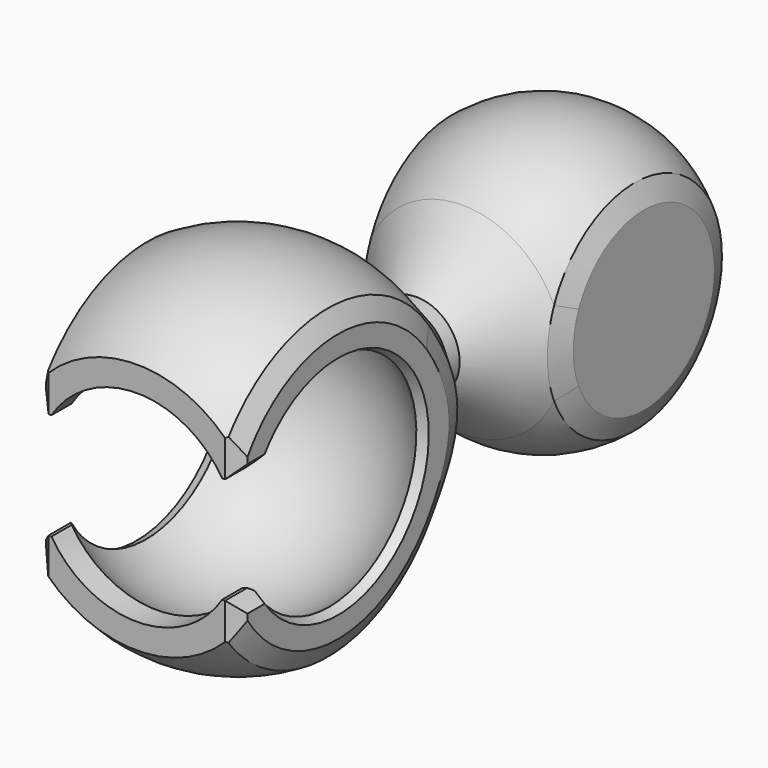
from build123d import *

# Parameters (mm, degrees)
BOX_W           = 10
BOX_H           = 10
BOX_DEPTH       = 3
EXTRUDE_DEPTH   = 10
CHAMFER_SIZE    = 0.35
CHAMFER001_SIZE = 0.3


with BuildPart() as notch:
    # Box → Box (new body)
    with BuildSketch(Plane(origin=(-5, -10, -1.5), x_dir=(1, 0, 0), z_dir=(0, 0, 1))):
        with Locations((5, 5)):
            Rectangle(BOX_W, BOX_H)
    extrude(amount=BOX_DEPTH)


with BuildPart() as extrude_body:
    # Sketch001 → Extrude (new body)
    with BuildSketch(Plane.XY):
        Polygon((7.953031, -3.5355339059), (7.953031, 19.801474), (-7.796516, 19.801474), (-7.796516, -5.421875), (-2.828427, -3.535534), (-2.828427, 18.553848), (2.8284271247, 18.553848), (2.8284271247, -3.5355339059), align=None)
    extrude(amount=EXTRUDE_DEPTH)


with BuildPart() as extrude_body_1:
    # Extrude placement: moved
    add(extrude_body.part.moved(Location((0, 0, -5))))


with BuildPart() as connectionchamfer:
    # Sketch → Revolve (revolve)
    with BuildSketch(Plane.XY):
        with BuildLine():
            ThreePointArc((-3.5355339059, 3.5355339059), (-5, 0), (-3.5355339059, -3.5355339059))
            Line((-2.8284271247, -3.5355339059), (-3.5355339059, -3.5355339059))
            Line((-2.8284271247, -2.8284271247), (-2.8284271247, -3.5355339059))
            ThreePointArc((0, 4), (-3.69551813, 1.5307337295), (-2.8284271247, -2.8284271247))
            Line((0, 14.7279220614), (0, 4))
            ThreePointArc((0, 14.7279220614), (-3.69551813, 12.2586557908), (-2.8284271247, 7.8994949366))
            Line((-1, 6.0710678119), (-2.8284271247, 7.8994949366))
            Line((-3.5355339059, 3.5355339059), (-1, 6.0710678119))
        make_face()
    revolve(axis=Axis((0, 0, 0), (0, 1, 0)))

    # Cut: cut Extrude body
    add(extrude_body_1.part, mode=Mode.SUBTRACT)

    # Cut001: cut Notch
    add(notch.part, mode=Mode.SUBTRACT)

    # Chamfer
    chamfer_edges = [connectionchamfer.edges().sort_by_distance(p)[0] for p in [
        (-2.828427, 0, 4.123106),
        (2.828427, 0, 4.123106),
        (-2.828427, 4.033836, -1.106697),
        (-2.828427, 4.033836, 1.106697),
        (-2.828427, -3.535534, 1.81066),
        (-2.828427, -2.966725, 1.5),
        (-2.828427, 0.780279, 2.71867),
        (-2.828427, 0.780279, -2.71867),
        (-2.828427, -2.966725, -1.5),
        (-2.828427, -3.535534, -1.81066),
        (-2.828427, 0, -4.123106),
        (2.828427, -3.535534, 1.81066),
        (2.828427, 4.242641, 0),
        (2.828427, -2.966725, 1.5),
        (2.828427, 2.828427, 0),
        (2.828427, -2.966725, -1.5),
        (2.828427, -3.535534, -1.81066),
        (2.828427, 0, -4.123106),
        (-2.828427, 10.728342, 2.828427),
        (-2.828427, 10.728342, -2.828427),
        (2.828427, 13.556349, 0),
    ]]
    chamfer(chamfer_edges, length=CHAMFER_SIZE)

    # Chamfer001
    chamfer001_edges = [connectionchamfer.edges().sort_by_distance(p)[0] for p in [
        (1, 6.071068, 0),
    ]]
    chamfer(chamfer001_edges, length=CHAMFER001_SIZE)


solid = connectionchamfer.part
